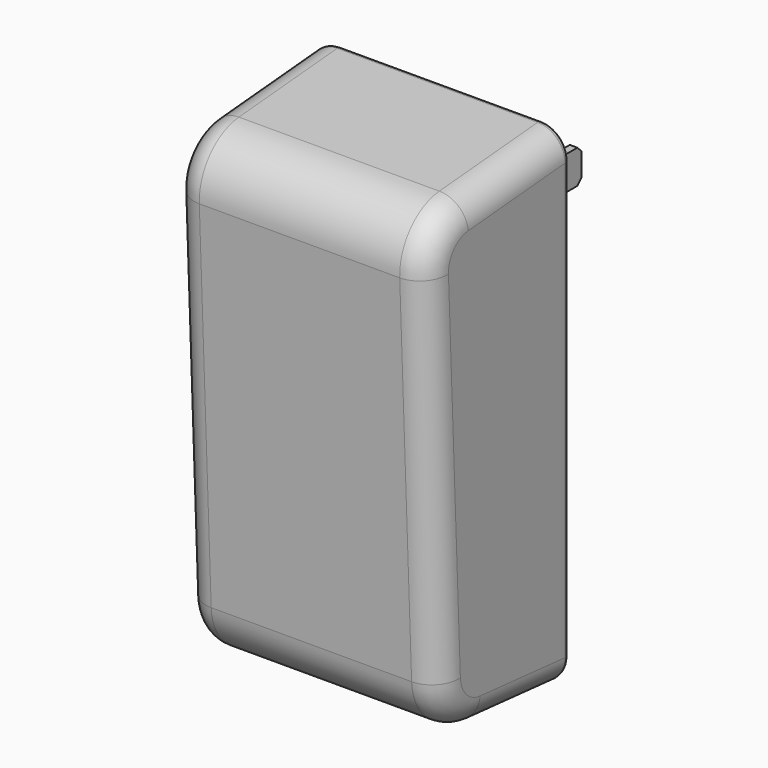
from build123d import *

# Parameters (mm, degrees)
F1_DEPTH = 23.5
F2_W     = 30.75
F2_H     = 18.8
F2_W_2   = 1.4
F2_H_2   = 6.21
F3_DEPTH = 7
F4_DEPTH = 23.5
F5_R     = 10
F6_R     = 5
F7_R     = 1
F8_SIZE  = 1


with BuildPart() as f1:
    # F0 (on Right) → F1 (new body, symmetric)
    with BuildSketch(Plane.YZ):
        Polygon((0, 0), (0, 90.6), (-33.3, 87.7318647873), (-29.8, 2.658541554), align=None)
    extrude(amount=F1_DEPTH, both=True)

    # F2 (on Front) → F3 (join)
    with BuildSketch(Plane.XZ):
        with Locations((0, 69.95)):
            Rectangle(F2_W, F2_H)
        with Locations((-6.265, 69.95)):
            Rectangle(F2_W_2, F2_H_2, mode=Mode.SUBTRACT)
        with Locations((6.265, 69.95)):
            Rectangle(F2_W_2, F2_H_2, mode=Mode.SUBTRACT)
        with Locations((6.265, 69.95)):
            Rectangle(F2_W_2, F2_H_2)
        with Locations((-6.265, 69.95)):
            Rectangle(F2_W_2, F2_H_2)
    extrude(amount=-F3_DEPTH)

    # F2 (on Front) → F4 (join)
    with BuildSketch(Plane.XZ):
        with Locations((-6.265, 69.95)):
            Rectangle(F2_W_2, F2_H_2)
        with Locations((6.265, 69.95)):
            Rectangle(F2_W_2, F2_H_2)
    extrude(amount=-F4_DEPTH)

    # F5
    f5_edges = [f1.edges().sort_by_distance(p)[0] for p in [
        (0, -33.3, 87.731865),
        (0, -29.8, 2.658542),
    ]]
    fillet(f5_edges, radius=F5_R)

    # F6
    f6_edges = [f1.edges().sort_by_distance(p)[0] for p in [
        (23.5, -31.533869, 44.803107),
        (-23.5, -31.533869, 44.803107),
    ]]
    fillet(f6_edges, radius=F6_R)

    # F7
    f7_edges = [f1.edges().sort_by_distance(p)[0] for p in [
        (23.5, 0, 45.300673),
    ]]
    fillet(f7_edges, radius=F7_R)

    # F8
    f8_edges = [f1.edges().sort_by_distance(p)[0] for p in [
        (-6.265, 23.5, 73.055),
        (-6.265, 23.5, 66.845),
        (6.265, 23.5, 73.055),
        (6.265, 23.5, 66.845),
    ]]
    chamfer(f8_edges, length=F8_SIZE)


solid = f1.part
